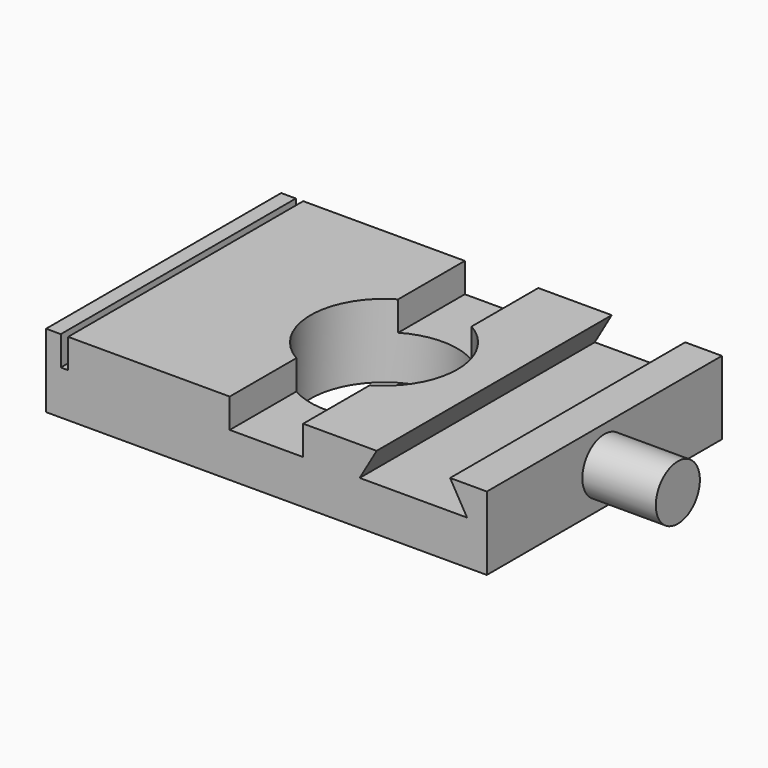
from build123d import *

# Parameters (mm, degrees)
F0_W     = 76.2
F0_H     = 50.8
F0_R     = 12.7
F1_DEPTH = 12.7
F2_W     = 1.27
F2_H     = 50.8
F3_DEPTH = 5.08
F5_DEPTH = 50.801
F6_R     = 4.7625
F7_DEPTH = 12.7


with BuildPart() as f1:
    # F0 (on Top) → F1 (new body)
    with BuildSketch(Plane.XY):
        with Locations((7.2689242661, 2.8940794703)):
            Rectangle(F0_W, F0_H)
        with Locations((7.2689242661, 2.8940794703)):
            Circle(F0_R, mode=Mode.SUBTRACT)
    extrude(amount=F1_DEPTH)

    # F2 (on face) → F3 (cut)
    with BuildSketch(Plane.XY.offset(12.7)):
        with BuildLine():
            Line((7.2689242661, 28.2940794703), (0.9189242661, 28.2940794703))
            Line((0.9189242661, 28.2940794703), (0.9189242661, 13.8926020983))
            ThreePointArc((0.9189242661, 13.8926020983), (7.2689242661, 15.5940794703), (13.6189242661, 13.8926020983))
            Line((13.6189242661, 13.8926020983), (13.6189242661, 28.2940794703))
            Line((13.6189242661, 28.2940794703), (7.2689242661, 28.2940794703))
        make_face()
        with BuildLine():
            Line((0.9189242661, -8.1044431578), (0.9189242661, -22.5059205297))
            Line((0.9189242661, -22.5059205297), (13.6189242661, -22.5059205297))
            Line((13.6189242661, -22.5059205297), (13.6189242661, -8.1044431578))
            ThreePointArc((13.6189242661, -8.1044431578), (7.2689242661, -9.8059205297), (0.9189242661, -8.1044431578))
        make_face()
        with Locations((-27.6560757339, 2.8940794703)):
            Rectangle(F2_W, F2_H)
    extrude(amount=-F3_DEPTH, mode=Mode.SUBTRACT)

    # F4 (on face) → F5 (cut, through all)
    with BuildSketch(Plane.XZ.offset(22.5059205297)):
        Polygon((39.0189242661, 12.7), (26.3189242661, 12.7), (23.3859848986, 7.62), (32.6689242661, 7.62), (41.9518636336, 7.62), align=None)
    extrude(amount=-F5_DEPTH, mode=Mode.SUBTRACT)

    # F6 (on face) → F7 (join)
    with BuildSketch(Plane.YZ.offset(45.3689242661)):
        with Locations((2.8940794703, 6.35)):
            Circle(F6_R)
    extrude(amount=F7_DEPTH)


solid = f1.part
